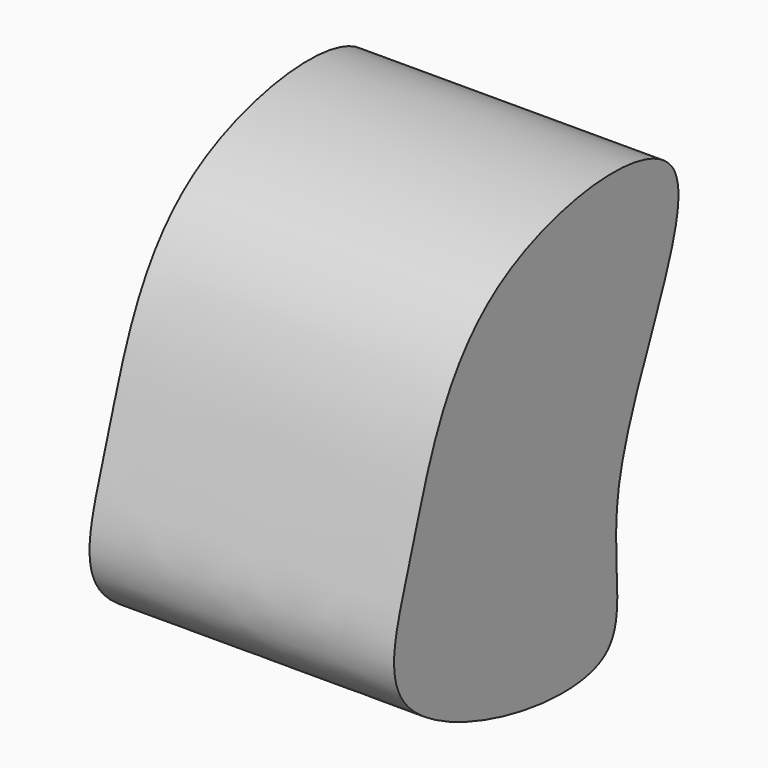
from build123d import *

# Parameters (mm, degrees)
F1_DEPTH = 25.4


with BuildPart() as f1:
    # F0 (on Right) → F1 (new body)
    with BuildSketch(Plane.YZ):
        with BuildLine():
            add(Edge.make_bspline(
                [(12.6809896901, 15.2786420923), (15.1562976538, 11.3057675585), (3.1940132254, -5.2136437136), (10.882348421, -22.0666146958), (-19.7356642864, -15.2033672605), (-14.1652614199, -1.9314203157), (-9.8836873263, 16.9856587425), (10.4201751416, 18.9072542398), (12.6809896901, 15.2786420923)],
                knots=[0, 0, 0, 0, 0.1898612376, 0.331476638, 0.5158251093, 0.6493646186, 0.8265908507, 1, 1, 1, 1], degree=3))
        make_face()
    extrude(amount=F1_DEPTH)


solid = f1.part
